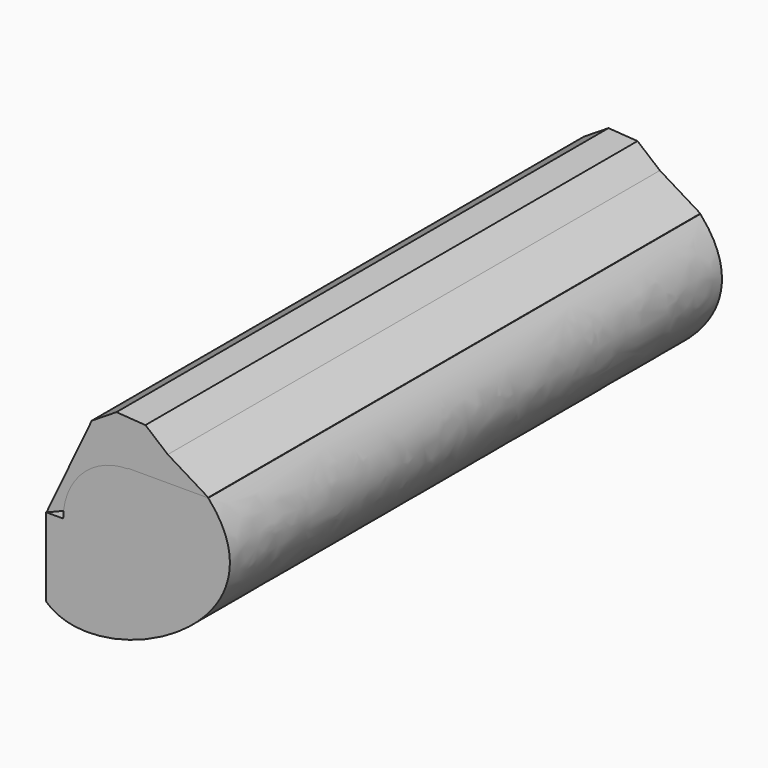
from build123d import *

# Parameters (mm, degrees)
F2_DEPTH = 381


with BuildPart() as f2:
    # F1 (on Front) → F2 (new body)
    with BuildSketch(Plane.XZ):
        Polygon((10.8537866368, 67.543476531), (-7.1323892667, 68.7526318341), (-22.3942348913, 59.1588500819), (-29.1022439395, 42.4266298231), (-24.6941849517, 24.9471104894), (-13.0214908475, 15.2058898892), (26.1313436692, 31.1032126238), (29.1022439395, 38.5137210671), (24.6941849517, 55.9932404008), align=None)
        Polygon((49.7736670077, 40.7027639449), (24.6941849517, 55.9932404008), (29.1022439395, 38.5137210671), (26.1313436692, 31.1032126238), align=None)
        Polygon((-29.1022439395, 42.4266298231), (-22.3942348913, 59.1588500819), (-50.4714250565, 0), (-13.0214908475, 15.2058898892), (-24.6941849517, 24.9471104894), align=None)
    extrude(amount=F2_DEPTH)


with BuildPart() as f2b:
    # F0 (on Front) → F2, piece 2 (new body)
    with BuildSketch(Plane.XZ):
        with BuildLine():
            Line((-40.1002204764, 0), (0, 0))
            Line((0, 0), (0, 40.1002204764))
            ThreePointArc((0, 40.1002204764), (-28.3551378259, 28.3551378259), (-40.1002204764, 0))
        make_face()
        with BuildLine():
            Line((0, 40.1002204764), (0, 0))
            Line((0, 0), (40.1002204764, 0))
            ThreePointArc((40.1002204764, 0), (28.3551378259, 28.3551378259), (0, 40.1002204764))
        make_face()
        with BuildLine():
            Line((49.7736670077, 0), (40.1002204764, 0))
            ThreePointArc((40.1002204764, 0), (28.3551378259, -28.3551378259), (0, -40.1002204764))
            Line((0, -40.1002204764), (0, -48.6107282341))
            Line((0, -48.6107282341), (-50.7040135562, -48.6107282341))
            add(Edge.make_bspline(
                [(49.7736670077, 40.4701754451), (103.0361354351, -18.8395641744), (-17.9092157632, -79.7774121165), (-50.7040135562, -48.6107282341)],
                knots=[0, 0, 0, 0, 134.2801984352, 134.2801984352, 134.2801984352, 134.2801984352], degree=3))
            Line((49.7736670077, 40.4701754451), (49.7736670077, 0))
        make_face()
        with BuildLine():
            Line((0, -40.1002204764), (0, 0))
            Line((0, 0), (-40.1002204764, 0))
            ThreePointArc((-40.1002204764, 0), (-28.3551378259, -28.3551378259), (0, -40.1002204764))
        make_face()
        with BuildLine():
            ThreePointArc((0, -40.1002204764), (-28.3551378259, -28.3551378259), (-40.1002204764, 0))
            Line((-40.1002204764, 0), (-50.7040135562, 0))
            Line((-50.7040135562, 0), (-50.7040135562, -48.6107282341))
            Line((-50.7040135562, -48.6107282341), (0, -48.6107282341))
            Line((0, -48.6107282341), (0, -40.1002204764))
        make_face()
        with BuildLine():
            Line((40.1002204764, 0), (0, 0))
            Line((0, 0), (0, -40.1002204764))
            ThreePointArc((0, -40.1002204764), (28.3551378259, -28.3551378259), (40.1002204764, 0))
        make_face()
        with BuildLine():
            ThreePointArc((0, 40.1002204764), (28.3551378259, 28.3551378259), (40.1002204764, 0))
            Line((40.1002204764, 0), (49.7736670077, 0))
            Line((49.7736670077, 0), (49.7736670077, 40.4701754451))
            Line((49.7736670077, 40.4701754451), (0, 40.4701754451))
            Line((0, 40.4701754451), (0, 40.1002204764))
        make_face()
    extrude(amount=F2_DEPTH)


solid = Compound([f2.part, f2b.part])
